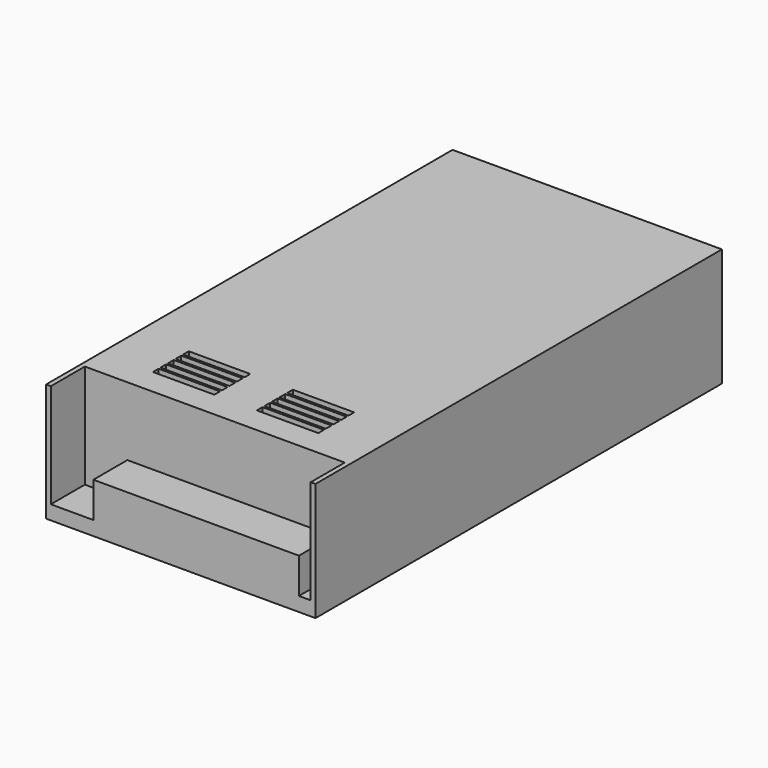
from build123d import *

# Parameters (mm, degrees)
F0_W     = 215
F0_H     = 50
F1_DEPTH = 57
F3_DEPTH = 18
F4_W     = 26
F4_H     = 3
F5_DEPTH = 10


with BuildPart() as f1:
    # F0 (on Right) → F1 (new body, symmetric)
    with BuildSketch(Plane.YZ):
        with Locations((-107.5, 25)):
            Rectangle(F0_W, F0_H)
    extrude(amount=F1_DEPTH, both=True)

    # F2 (on face) → F3 (cut)
    with BuildSketch(Plane.XZ.offset(215)):
        Polygon((-55, 50), (-55, 6), (-37, 6), (-37, 21), (50, 21), (50, 6), (55, 6), (55, 50), align=None)
    extrude(amount=-F3_DEPTH, mode=Mode.SUBTRACT)

    # F4 (on face) → F5 (cut)
    with BuildSketch(Plane.XY.offset(50)):
        with Locations((22, -168.5)):
            Rectangle(F4_W, F4_H)
        with Locations((22, -172.5)):
            Rectangle(F4_W, F4_H)
        with Locations((22, -176.5)):
            Rectangle(F4_W, F4_H)
        with Locations((22, -180.5)):
            Rectangle(F4_W, F4_H)
        with Locations((22, -184.5)):
            Rectangle(F4_W, F4_H)
        with Locations((-22, -184.5)):
            Rectangle(F4_W, F4_H)
        with Locations((-22, -180.5)):
            Rectangle(F4_W, F4_H)
        with Locations((-22, -176.5)):
            Rectangle(F4_W, F4_H)
        with Locations((-22, -172.5)):
            Rectangle(F4_W, F4_H)
        with Locations((-22, -168.5)):
            Rectangle(F4_W, F4_H)
    extrude(amount=-F5_DEPTH, mode=Mode.SUBTRACT)


solid = f1.part
